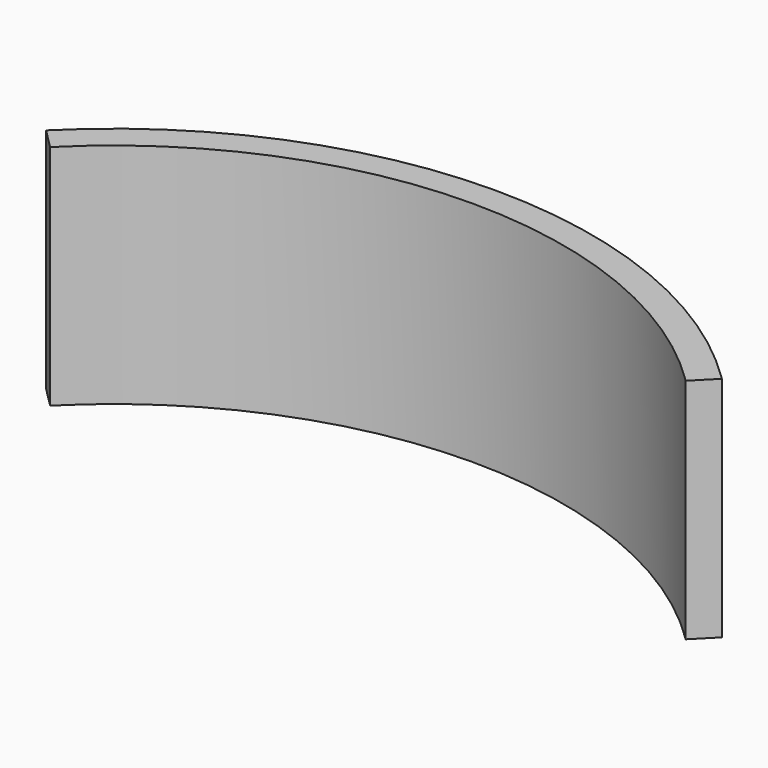
from build123d import *

# Parameters (mm, degrees)
F1_DEPTH = 50.8
F3_R     = 18.840959
F3_R_2   = 15.518861
F4_DEPTH = 5.08


with BuildPart() as f1:
    # F0 (on Top) → F1 (new body)
    with BuildSketch(Plane.XY):
        with BuildLine():
            Line((71.684018, -17.545537), (76.151238, -13.032617))
            ThreePointArc((76.151238, -13.032617), (0.810028, 17.846849), (-74.385113, -13.386627))
            Line((-74.385113, -13.386627), (-69.896718, -17.878487))
            ThreePointArc((-69.896718, -17.878487), (0.824961, 11.496866), (71.684018, -17.545537))
        make_face()
    extrude(amount=F1_DEPTH)

    # F3 (on offset) → F4 (cut)
    with BuildSketch(Plane.XZ.offset(-20.32)):
        with Locations((4.391287, 26.769793)):
            Circle(F3_R)
        with Locations((4.391287, 26.769793)):
            Circle(F3_R_2, mode=Mode.SUBTRACT)
        with BuildLine():
            ThreePointArc((-4.417794, 21.524068), (-4.064254, 26.78749), (-1.260601, 31.256061))
            ThreePointArc((-1.260601, 31.256061), (-1.442666, 37.063663), (-6.704263, 34.598508))
            ThreePointArc((-6.704263, 34.598508), (-6.685209, 27.864691), (-4.417794, 21.524068))
        make_face()
        with BuildLine():
            ThreePointArc((3.559272, 37.963443), (7.940759, 35.025558), (10.408828, 30.363238))
            ThreePointArc((10.408828, 30.363238), (15.529392, 27.617109), (16.025304, 33.406364))
            ThreePointArc((16.025304, 33.406364), (10.18412, 36.756771), (3.559272, 37.963443))
        make_face()
        with BuildLine():
            ThreePointArc((13.262496, 23.655856), (8.527469, 21.33032), (3.255747, 21.524069))
            ThreePointArc((3.255747, 21.524069), (-1.682752, 18.462594), (3.082934, 15.138495))
            ThreePointArc((3.082934, 15.138495), (8.905063, 18.521906), (13.262496, 23.655856))
        make_face()
    extrude(amount=F4_DEPTH, mode=Mode.SUBTRACT)


solid = f1.part
